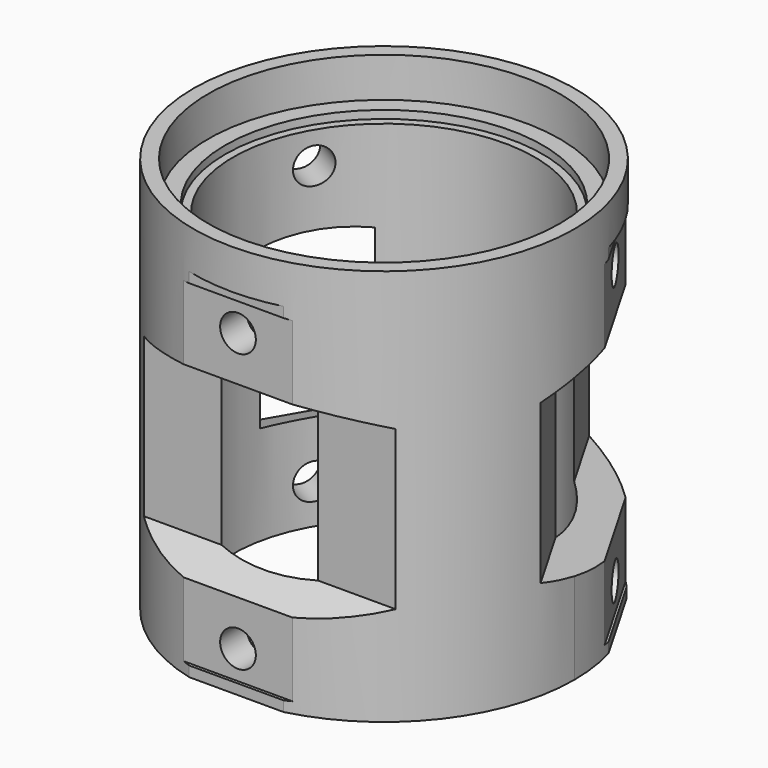
from build123d import *

# Parameters (mm, degrees)
F0_R           = 24
F0_R_2         = 19
F1_DEPTH       = 50
F2_R           = 22.15
F3_DEPTH       = 5
F4_R           = 20
F5_DEPTH       = 1
F6_R           = 57.967167
F7_DEPTH       = 45
F9_DEPTH       = 25
F10_COUNT      = 3
F10_ANGLE      = 240
F12_R          = 2.25
F13_DEPTH      = 10
F13_DEPTH_BACK = 10
F14_COUNT      = 3
F14_ANGLE      = 240


with BuildPart() as f1:
    # F0 (on Top) → F1 (new body)
    with BuildSketch(Plane.XY):
        Circle(F0_R)
        Circle(F0_R_2, mode=Mode.SUBTRACT)
    extrude(amount=F1_DEPTH)

    # F2 (on face) → F3 (cut)
    with BuildSketch(Plane.XY.offset(50)):
        Circle(F2_R)
    extrude(amount=-F3_DEPTH, mode=Mode.SUBTRACT)

    # F4 (on face) → F5 (cut)
    with BuildSketch(Plane.XY.offset(45)):
        Circle(F4_R)
    extrude(amount=-F5_DEPTH, mode=Mode.SUBTRACT)

    # F6 (on Top) → F7 (cut)
    with BuildSketch(Plane.XY):
        Circle(F6_R)
        Polygon((0, 46.5), (40.270181, -23.25), (-40.270181, -23.25), align=None, mode=Mode.SUBTRACT)
    extrude(amount=F7_DEPTH, mode=Mode.SUBTRACT)


with BuildPart() as f9:
    # F8 (on Right) → F9 (new body, symmetric)
    with BuildSketch(Plane.YZ):
        Polygon((-23, 34.319851), (-23, 43.612687), (-27.333883, 45.190091), (-27.333883, -0.190091), (-23, 1.387313), (-23, 10.680149), (-18, 12.5), (-18, 22.5), (-18, 32.5), align=None)
    extrude(amount=F9_DEPTH, both=True)


with BuildPart() as f10_1:
    # F10: instance of F9
    add(f9.part.rotate(Axis((0, 0, 0), (0, 0, -1)), 1 * F10_ANGLE / (F10_COUNT - 1)))


with BuildPart() as f10_2:
    # F10: instance of F9
    add(f9.part.rotate(Axis((0, 0, 0), (0, 0, -1)), 2 * F10_ANGLE / (F10_COUNT - 1)))


with BuildPart() as f1_1:
    add(f1.part)

    # F11: cut F10_2, F10_1, F9
    add(f10_2.part, mode=Mode.SUBTRACT)
    add(f10_1.part, mode=Mode.SUBTRACT)
    add(f9.part, mode=Mode.SUBTRACT)


with BuildPart() as f13:
    # F12 (on face) → F13 (new body, two sides)
    with BuildSketch(Plane.XZ.offset(23)) as f13_sk:
        with Locations((0, 40)):
            Circle(F12_R)
        with Locations((0, 5)):
            Circle(F12_R)
    extrude(amount=-F13_DEPTH)
    extrude(f13_sk.sketch, amount=-F13_DEPTH_BACK)


with BuildPart() as f14_1:
    # F14: instance of F13
    add(f13.part.rotate(Axis((0, 0, 0), (0, 0, -1)), 1 * F14_ANGLE / (F14_COUNT - 1)))


with BuildPart() as f14_2:
    # F14: instance of F13
    add(f13.part.rotate(Axis((0, 0, 0), (0, 0, -1)), 2 * F14_ANGLE / (F14_COUNT - 1)))


with BuildPart() as f1_2:
    add(f1_1.part)

    # F15: cut F14_2, F14_1, F13
    add(f14_2.part, mode=Mode.SUBTRACT)
    add(f14_1.part, mode=Mode.SUBTRACT)
    add(f13.part, mode=Mode.SUBTRACT)


solid = f1_2.part
